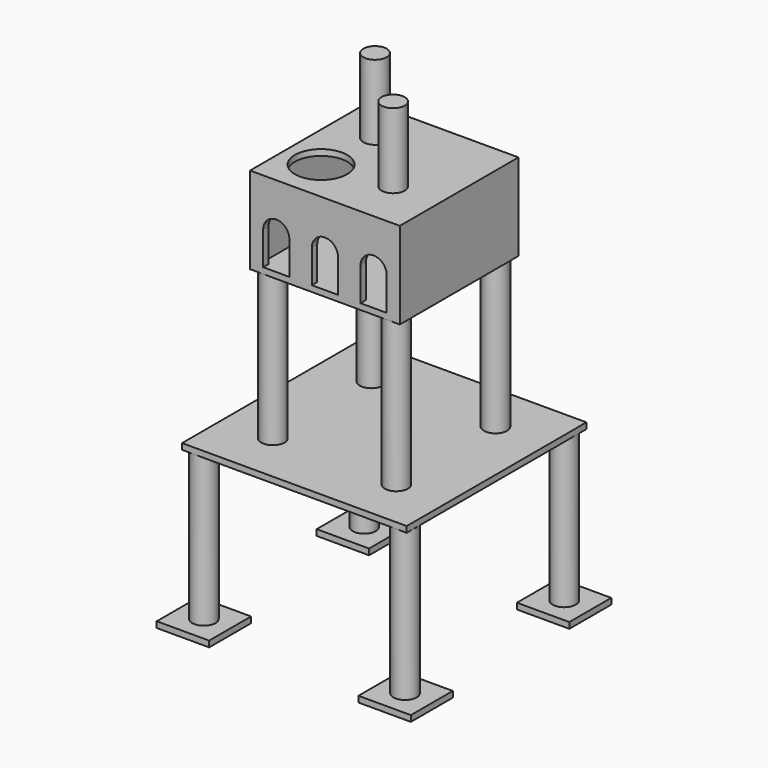
from build123d import *

# Parameters (mm, degrees)
F0_W      = 76.2
F0_H      = 76.2
F1_DEPTH  = 2.032
F2_R      = 3.937
F3_DEPTH  = 50.8
F4_W      = 50.8
F4_H      = 50.31309912
F5_DEPTH  = 2.032
F6_W      = 50.8
F6_H      = 50.31309912
F6_W_2    = 45.72
F6_H_2    = 45.72
F7_DEPTH  = 25.4
F8_W      = 50.8
F8_H      = 50.31309912
F8_W_2    = 45.72
F8_H_2    = 45.72
F8_R      = 8.8730231001
F9_DEPTH  = 2.032
F10_W     = 8.89
F10_H     = 11.2548470073
F11_DEPTH = 7.62
F12_R     = 3.937
F13_DEPTH = 50.8
F14_W     = 17.78
F14_H     = 17.78
F15_DEPTH = 2.032
F16_R     = 3.937
F17_DEPTH = 25.4


with BuildPart() as f1:
    # F0 (on Top) → F1 (new body)
    with BuildSketch(Plane.XY):
        Rectangle(F0_W, F0_H)
    extrude(amount=-F1_DEPTH)

    # F2 (on face) → F3 (join)
    with BuildSketch(Plane.XY):
        with Locations((-21.0064100094, -20.9534343708)):
            Circle(F2_R)
        with Locations((-21.0418901269, 20.855767953)):
            Circle(F2_R)
        with Locations((21.0487861186, -21.1718771607)):
            Circle(F2_R)
        with Locations((20.8026003093, 21.1718771607)):
            Circle(F2_R)
    extrude(amount=F3_DEPTH)

    # F4 (on face) → F5 (join)
    with BuildSketch(Plane.XY.offset(50.8)):
        Rectangle(F4_W, F4_H)
    extrude(amount=F5_DEPTH)

    # F6 (on face) → F7 (join)
    with BuildSketch(Plane.XY.offset(52.832)):
        Rectangle(F6_W, F6_H)
        Rectangle(F6_W_2, F6_H_2, mode=Mode.SUBTRACT)
    extrude(amount=F7_DEPTH)

    # F8 (on face) → F9 (join)
    with BuildSketch(Plane.XY.offset(78.232)):
        Rectangle(F8_W, F8_H)
        Rectangle(F8_W_2, F8_H_2, mode=Mode.SUBTRACT)
        Rectangle(F8_W_2, F8_H_2)
        with Locations((-12.8535525873, -10.7279159129)):
            Circle(F8_R, mode=Mode.SUBTRACT)
    extrude(amount=F9_DEPTH)

    # F10 (on face) → F11 (cut)
    with BuildSketch(Plane.XZ.offset(25.15654956)):
        with Locations((16.51, 58.4594235036)):
            Rectangle(F10_W, F10_H)
        with BuildLine():
            ThreePointArc((20.955, 64.0868470073), (16.51, 68.5318470073), (12.065, 64.0868470073))
            Line((12.065, 64.0868470073), (20.955, 64.0868470073))
        make_face()
        with Locations((0, 58.4594235036)):
            Rectangle(F10_W, F10_H)
        with BuildLine():
            ThreePointArc((4.445, 64.0868470073), (0, 68.5318470073), (-4.445, 64.0868470073))
            Line((-4.445, 64.0868470073), (4.445, 64.0868470073))
        make_face()
        with Locations((-16.51, 58.4594235036)):
            Rectangle(F10_W, F10_H)
        with BuildLine():
            ThreePointArc((-12.065, 64.0868470073), (-16.51, 68.5318470073), (-20.955, 64.0868470073))
            Line((-20.955, 64.0868470073), (-12.065, 64.0868470073))
        make_face()
    extrude(amount=-F11_DEPTH, mode=Mode.SUBTRACT)

    # F12 (on face) → F13 (join)
    with BuildSketch(Plane(origin=(0, 0, -2.032), x_dir=(1, 0, 0), z_dir=(0, 0, -1))):
        with Locations((-33.9964929416, 33.9741817005)):
            Circle(F12_R)
        with Locations((34.2564113713, 33.9811018472)):
            Circle(F12_R)
        with Locations((-33.8014231791, -33.7535219774)):
            Circle(F12_R)
        with Locations((33.9347845396, -33.9068524793)):
            Circle(F12_R)
    extrude(amount=F13_DEPTH)

    # F14 (on face) → F15 (join)
    with BuildSketch(Plane(origin=(0, 0, -52.832), x_dir=(1, 0, 0), z_dir=(0, 0, -1))):
        with Locations((-33.9964929416, 33.9741817005)):
            Rectangle(F14_W, F14_H)
        with Locations((34.4249159098, 33.9741817005)):
            Rectangle(F14_W, F14_H)
        with Locations((-33.9227057993, -33.7536521256)):
            Rectangle(F14_W, F14_H)
        with Locations((33.8537693024, -33.9440368116)):
            Rectangle(F14_W, F14_H)
    extrude(amount=F15_DEPTH)

    # F16 (on face) → F17 (join)
    with BuildSketch(Plane.XY.offset(80.264)):
        with Locations((-11.2163906208, 10.1006944331)):
            Circle(F16_R)
        with Locations((9.8858151284, -8.5968601803)):
            Circle(F16_R)
    extrude(amount=F17_DEPTH)


solid = f1.part
